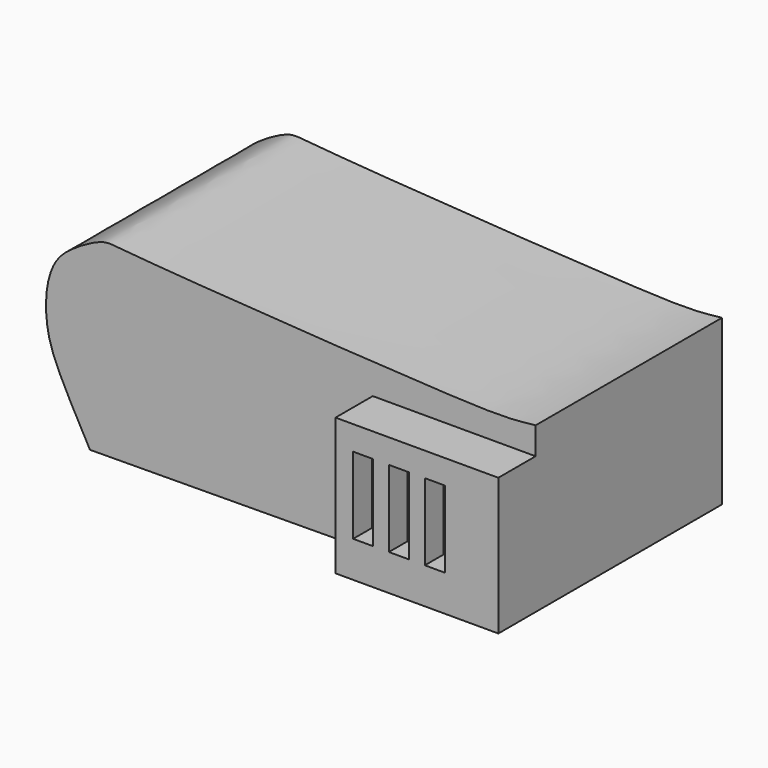
from build123d import *

# Parameters (mm, degrees)
F0_W     = 177.5904708945
F0_H     = 149.5498765648
F1_DEPTH = 304.8
F2_DEPTH = 254
F3_W     = 21.9169557095
F3_H     = 83.6829114705
F4_DEPTH = 25.4


with BuildPart() as f1:
    # F0 (on Front) → F1 (new body)
    with BuildSketch(Plane.XZ):
        with Locations((174.671640086, -72.056198139)):
            Rectangle(F0_W, F0_H)
    extrude(amount=F1_DEPTH)

    # F0 (on Front) → F2 (join)
    with BuildSketch(Plane.XZ):
        with Locations((174.671640086, -72.056198139)):
            Rectangle(F0_W, F0_H)
        with BuildLine():
            Line((-222.5701865075, -149.1678392356), (85.8764046388, -146.8311364214))
            Line((85.8764046388, -146.8311364214), (85.8764046388, 2.7187401434))
            Line((85.8764046388, 2.7187401434), (263.4668755333, 2.7187401434))
            Line((263.4668755333, 2.7187401434), (263.4668755333, 32.3923885882))
            add(Edge.make_bspline(
                [(-222.5701865075, -149.1678392356), (-237.1649315314, -122.5864247012), (-261.1885085736, -78.8322749085), (-270.5461214626, -45.329195318), (-271.1471556129, -8.9793729481), (-261.7831450842, 20.5184958854), (-242.6827523382, 38.3326869065), (-207.8720109483, 57.8083184954), (-181.757919158, 52.41871226), (185.278100925, 28.5594628417), (234.744810532, 29.426767301), (257.9004871398, 31.761622978), (263.4668755333, 32.3923885882)],
                knots=[0, 0, 0, 0, 0.1106139844, 0.1820753683, 0.2546079281, 0.3212145586, 0.3842072182, 0.4561689355, 0.5236930887, 0.7563439309, 0.8571963726, 0.888945947, 0.888945947, 0.888945947, 0.888945947], degree=3))
        make_face()
    extrude(amount=F2_DEPTH)

    # F3 (on face) → F4 (cut)
    with BuildSketch(Plane.XZ.offset(304.8)):
        with Locations((116.0699874163, -65.5674627051)):
            Rectangle(F3_W, F3_H)
        with Locations((155.065074563, -65.5674627051)):
            Rectangle(F3_W, F3_H)
        with Locations((194.278205609, -65.5674627051)):
            Rectangle(F3_W, F3_H)
    extrude(amount=-F4_DEPTH, mode=Mode.SUBTRACT)


solid = f1.part
